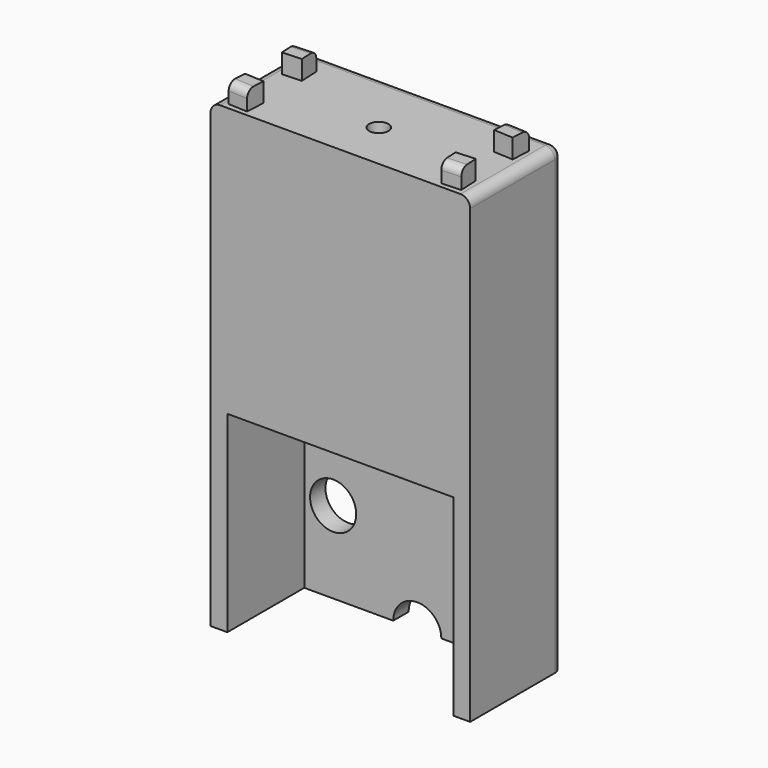
from build123d import *

# Parameters (mm, degrees)
BOX_W           = 27
BOX_H           = 12
BOX_DEPTH       = 48
SKETCH_W        = 23.5
SKETCH_H        = 20
POCKET_DEPTH    = 10
SKETCH002_R     = 1
POCKET001_DEPTH = 28.001
SKETCH003_R     = 3
POCKET002_DEPTH = 26.5
SKETCH004_R     = 2.4
POCKET003_DEPTH = 2.001
POCKET004_DEPTH = 2.001
PAD_DEPTH       = 2
FILLET_R        = 1
FILLET001_R     = 0.8


with BuildPart() as part:
    # Box → Box (new body)
    with BuildSketch(Plane.XY):
        with Locations((13.5, 6)):
            Rectangle(BOX_W, BOX_H)
    extrude(amount=BOX_DEPTH)

    # Sketch (on Face3 of BaseFeature) → Pocket (cut)
    with BuildSketch(Plane.XZ):
        with Locations((13.5, 10)):
            Rectangle(SKETCH_W, SKETCH_H)
    extrude(amount=-POCKET_DEPTH, mode=Mode.SUBTRACT)

    # Sketch002 (on Face7 of Pocket) → Pocket001 (cut, through all)
    with BuildSketch(Plane(origin=(0, 0, 20), x_dir=(1, 0, 0), z_dir=(0, 0, -1))):
        with Locations((13.5, -5)):
            Circle(SKETCH002_R)
    extrude(amount=-POCKET001_DEPTH, mode=Mode.SUBTRACT)

    # Sketch003 (on Face7 of Pocket001) → Pocket002 (cut)
    with BuildSketch(Plane(origin=(0, 0, 20), x_dir=(1, 0, 0), z_dir=(0, 0, -1))):
        with Locations((13.5, -5)):
            Circle(SKETCH003_R)
    extrude(amount=-POCKET002_DEPTH, mode=Mode.SUBTRACT)

    # Sketch004 (on Face11 of Pocket002) → Pocket003 (cut, through all)
    with BuildSketch(Plane.XZ.offset(-10)):
        with Locations((4.75, 8.5)):
            Circle(SKETCH004_R)
        with Locations((22.25, 8.5)):
            Circle(SKETCH004_R)
    extrude(amount=-POCKET003_DEPTH, mode=Mode.SUBTRACT)

    # Sketch005 (on Face13 of Pocket003) → Pocket004 (cut, through all)
    with BuildSketch(Plane.XZ.offset(-10)):
        with BuildLine():
            ThreePointArc((16, 0), (13.5, 2.5), (11, 0))
            Line((11, 0), (16, 0))
        make_face()
    extrude(amount=-POCKET004_DEPTH, mode=Mode.SUBTRACT)

    # Sketch006 (on Face3 of Pocket004) → Pad (join)
    with BuildSketch(Plane.XY.offset(48)):
        Polygon((3.4, 9.497498), (1.402502, 9.397498), (1.502502, 7.4), (3.5, 7.5), align=None)
        Polygon((1.502502, 2.6), (3.5, 2.5), (3.4, 0.502502), (1.402502, 0.602502), align=None)
        Polygon((23.5, 2.5), (25.497498, 2.6), (25.597498, 0.602502), (23.6, 0.502502), align=None)
        Polygon((23.6, 9.497498), (25.597498, 9.397498), (25.497498, 7.4), (23.5, 7.5), align=None)
    extrude(amount=PAD_DEPTH)

    # Fillet
    fillet_edges = [part.edges().sort_by_distance(p)[0] for p in [
        (27, 6, 48),
        (27, 12, 24),
        (13.5, 12, 48),
        (0, 12, 24),
        (0, 6, 48),
    ]]
    fillet(fillet_edges, radius=FILLET_R)

    # Fillet001
    fillet001_edges = [part.edges().sort_by_distance(p)[0] for p in [
        (2.401251, 9.447498, 50),
        (2.401251, 0.552502, 50),
        (24.598749, 9.447498, 50),
        (24.598749, 0.552502, 50),
    ]]
    fillet(fillet001_edges, radius=FILLET001_R)


solid = part.part
